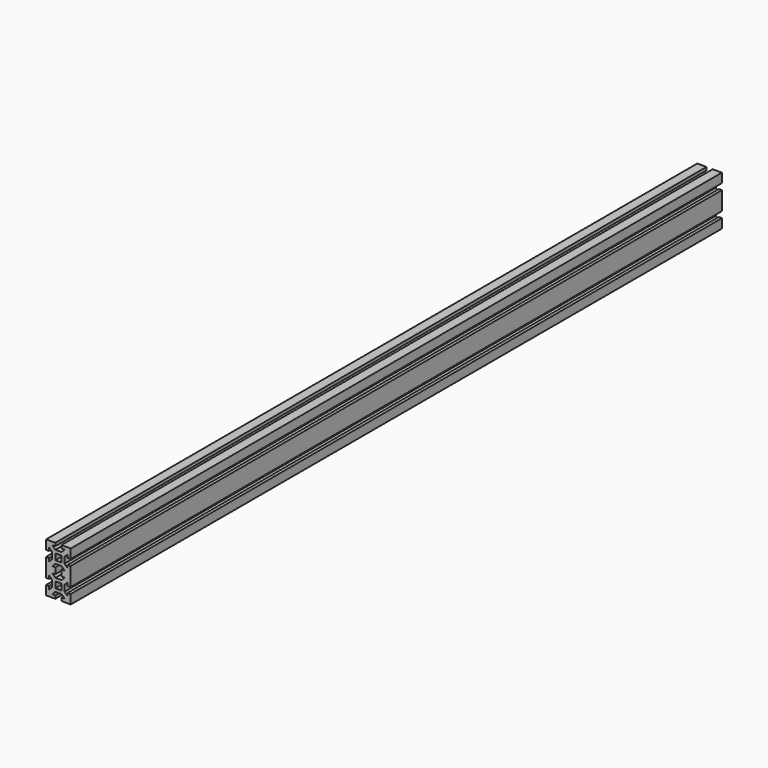
from build123d import *

# Parameters (mm, degrees)
F1_DEPTH = 1320


with BuildPart() as f1:
    # F0 (on Front) → F1 (new body)
    with BuildSketch(Plane.XZ):
        Polygon((5, -20), (20, -20), (20, -5), (15, -5), (15, -10), (10, -5), (10, 5), (15, 10), (15, 5), (20, 5), (20, 20), (20, 35), (15, 35), (15, 30), (10, 35), (10, 45), (15, 50), (15, 45), (20, 45), (20, 60), (5, 60), (5, 55), (10, 55), (5, 50), (-5, 50), (-10, 55), (-5, 55), (-5, 60), (-20, 60), (-20, 45), (-15, 45), (-15, 50), (-10, 45), (-10, 35), (-15, 30), (-15, 35), (-20, 35), (-20, 20), (-20, 5), (-15, 5), (-15, 10), (-10, 5), (-10, -5), (-15, -10), (-15, -5), (-20, -5), (-20, -20), (-5, -20), (-5, -15), (-10, -15), (-5, -10), (5, -10), (10, -15), (5, -15), align=None)
        Polygon((-5, 0), (-5, 5), (0, 5), (5, 5), (5, 0), (5, -5), (0, -5), (-5, -5), align=None, mode=Mode.SUBTRACT)
        Polygon((-5, 15), (-5, 20), (-5, 25), (-10, 25), (-5, 30), (5, 30), (10, 25), (5, 25), (5, 20), (5, 15), (10, 15), (5, 10), (-5, 10), (-10, 15), align=None, mode=Mode.SUBTRACT)
        Polygon((-5, 40), (-5, 45), (0, 45), (5, 45), (5, 40), (5, 35), (0, 35), (-5, 35), align=None, mode=Mode.SUBTRACT)
    extrude(amount=F1_DEPTH)


solid = f1.part
